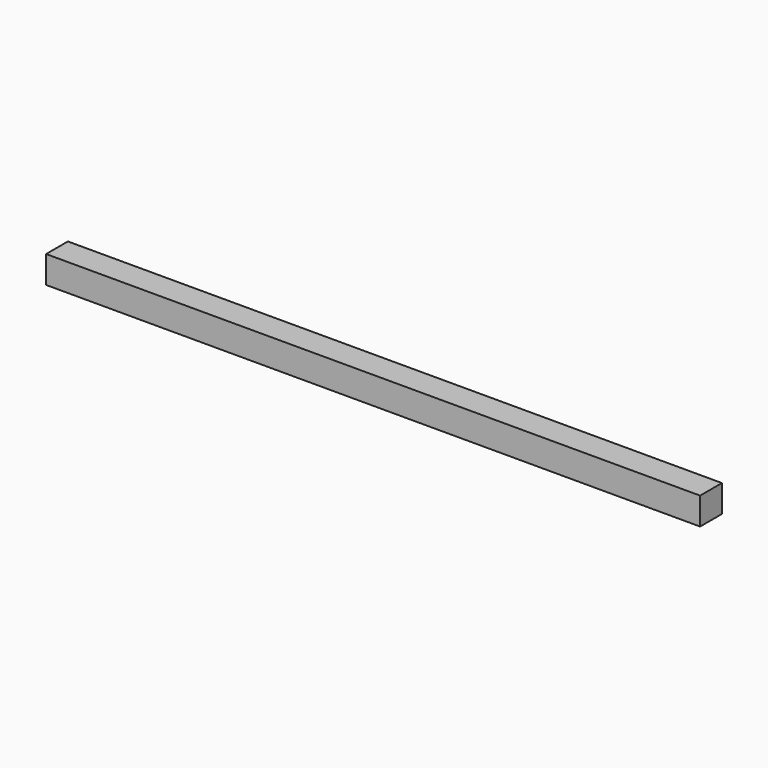
from build123d import *

# Parameters (mm, degrees)
F0_W     = 43.3424860239
F0_H     = 30.723374337
F1_DEPTH = 600
F2_DEPTH = 25
F3_DEPTH = 25


with BuildPart() as f1:
    # F0 (on Right) → F1 (new body)
    with BuildSketch(Plane.YZ):
        with Locations((-21.671243012, 15.3616871685)):
            Rectangle(F0_W, F0_H)
    extrude(amount=F1_DEPTH)

    # F2 (intersect): a face of the model
    f2_faces = [f1.faces().sort_by_distance(p)[0] for p in [
        (300, 0, 15.3616871685),
    ]]
    extrude(f2_faces, amount=-F2_DEPTH, mode=Mode.INTERSECT)

    # F3 (intersect): a face of the model
    f3_faces = [f1.faces().sort_by_distance(p)[0] for p in [
        (300, -12.5, 0),
    ]]
    extrude(f3_faces, amount=-F3_DEPTH, mode=Mode.INTERSECT)


solid = f1.part
